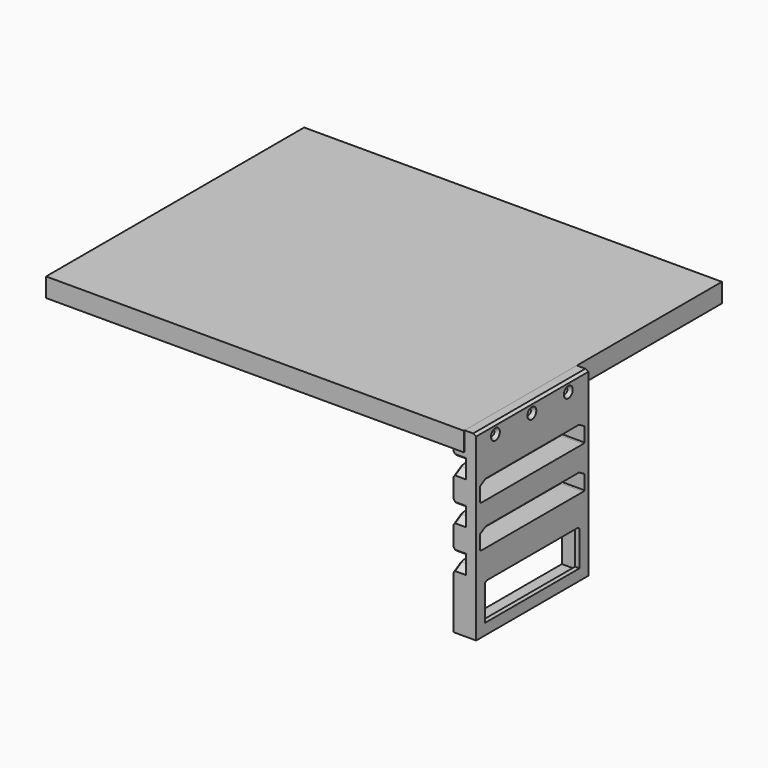
from build123d import *

# Parameters (mm, degrees)
F0_W              = 208.5
F0_H              = 19
F1_DEPTH          = 161
F5_START          = 20
F5_DEPTH          = 140
F6_SIZE2          = 5.7735026919
F6_SIZE           = 10
F6_2_SIZE2        = 5.7735026919
F6_2_SIZE         = 10
F6_3_SIZE2        = 5.7735026919
F6_3_SIZE         = 10
F7_SIZE2          = 5.7735026919
F7_SIZE           = 10
F7_2_SIZE2        = 5.7735026919
F7_2_SIZE         = 10
F7_3_SIZE2        = 5.7735026919
F7_3_SIZE         = 10
F8_SIZE           = 3
F9_SIZE2          = 1.7320508076
F9_SIZE           = 3
F10_R             = 8
F11_SIZE          = 1.5
F13_DEPTH         = 22.5
F15_D             = 5
F15_CSINK_D       = 11
F15_CSINK_ANGLE   = 90
F15_2_D           = 5
F15_2_CSINK_D     = 11
F15_2_CSINK_ANGLE = 90
F16_DEPTH         = 18
F18_DEPTH         = 22.501


with BuildPart() as f1:
    # F0 (on Front) → F1 (new body)
    with BuildSketch(Plane.XZ):
        with Locations((104.25, 9.5)):
            Rectangle(F0_W, F0_H)
    extrude(amount=F1_DEPTH)

    # F2: F1 across face


with BuildPart() as f1_1:
    add(f1.part)
    add(f1.part.mirror(Plane(origin=(104.25, 0, 9.5), x_dir=(1, 0, 0), z_dir=(0, 1, 0))))

    # F3: F1 across face


with BuildPart() as f1_2:
    add(f1_1.part)
    add(f1_1.part.mirror(Plane(origin=(0, 0, 9.5), x_dir=(0, -1, 0), z_dir=(-1, 0, 0))))

    # F15 (through all)
    with Locations(Plane.YZ.offset(220)):
        with Locations((-136, 9.5), (-90.5, 9.5), (-45, 9.5)):
            CounterSinkHole(F15_D / 2, F15_CSINK_D / 2, counter_sink_angle=F15_CSINK_ANGLE)


with BuildPart() as f5:
    # F4 (on Front) → F5 (new body)
    with BuildSketch(Plane.XZ.offset(F5_START)):
        Polygon((220, 19), (208.5, 19), (208.5, 0), (197.5, 0), (197.5, -8), (210, -8), (210, -18), (197.5, -18), (197.5, -50), (210, -50), (210, -60), (197.5, -60), (197.5, -92), (210, -92), (210, -102), (197.5, -102), (197.5, -162), (220, -162), align=None)
    extrude(amount=F5_DEPTH)

    # F6
    f6_edges = [f5.edges().sort_by_distance(p)[0] for p in [
        (203.75, -160, -18),
    ]]
    f6_side = f5.faces().sort_by_distance((203.75, -90, -18))[0]
    chamfer(f6_edges, length=F6_SIZE, length2=F6_SIZE2, reference=f6_side)

    # F6#2
    f6_2_edges = [f5.edges().sort_by_distance(p)[0] for p in [
        (203.75, -160, -60),
    ]]
    f6_2_side = f5.faces().sort_by_distance((203.75, -90, -60))[0]
    chamfer(f6_2_edges, length=F6_2_SIZE, length2=F6_2_SIZE2, reference=f6_2_side)

    # F6#3
    f6_3_edges = [f5.edges().sort_by_distance(p)[0] for p in [
        (203.75, -160, -102),
    ]]
    f6_3_side = f5.faces().sort_by_distance((203.75, -90, -102))[0]
    chamfer(f6_3_edges, length=F6_3_SIZE, length2=F6_3_SIZE2, reference=f6_3_side)

    # F7
    f7_edges = [f5.edges().sort_by_distance(p)[0] for p in [
        (203.75, -20, -18),
    ]]
    f7_side = f5.faces().sort_by_distance((203.75, -85, -18))[0]
    chamfer(f7_edges, length=F7_SIZE, length2=F7_SIZE2, reference=f7_side)

    # F7#2
    f7_2_edges = [f5.edges().sort_by_distance(p)[0] for p in [
        (203.75, -20, -60),
    ]]
    f7_2_side = f5.faces().sort_by_distance((203.75, -85, -60))[0]
    chamfer(f7_2_edges, length=F7_2_SIZE, length2=F7_2_SIZE2, reference=f7_2_side)

    # F7#3
    f7_3_edges = [f5.edges().sort_by_distance(p)[0] for p in [
        (203.75, -20, -102),
    ]]
    f7_3_side = f5.faces().sort_by_distance((203.75, -85, -102))[0]
    chamfer(f7_3_edges, length=F7_3_SIZE, length2=F7_3_SIZE2, reference=f7_3_side)

    # F8
    f8_edges = [f5.edges().sort_by_distance(p)[0] for p in [
        (203.75, -20, -8),
        (203.75, -20, -50),
        (203.75, -20, -92),
        (203.75, -160, -92),
        (203.75, -160, -50),
        (203.75, -160, -8),
    ]]
    chamfer(f8_edges, length=F8_SIZE)

    # F9
    f9_edges = [f5.edges().sort_by_distance(p)[0] for p in [
        (220, -90, 19),
    ]]
    f9_side = f5.faces().sort_by_distance((214.25, -90, 19))[0]
    chamfer(f9_edges, length=F9_SIZE, length2=F9_SIZE2, reference=f9_side)

    # F10
    f10_edges = [f5.edges().sort_by_distance(p)[0] for p in [
        (203.75, -30, -102),
        (203.75, -150, -102),
        (203.75, -150, -60),
        (203.75, -150, -18),
        (203.75, -30, -60),
        (203.75, -30, -18),
        (203.75, -23, -8),
        (203.75, -157, -8),
        (203.75, -23, -50),
        (203.75, -23, -92),
        (203.75, -157, -92),
        (203.75, -157, -50),
    ]]
    fillet(f10_edges, radius=F10_R)

    # F11
    f11_edges = [f5.edges().sort_by_distance(p)[0] for p in [
        (197.5, -24.071797, -21.42265),
        (197.5, -90, -8),
        (197.5, -90, -50),
        (197.5, -90, -60),
        (197.5, -90, -102),
        (197.5, -90, -92),
    ]]
    chamfer(f11_edges, length=F11_SIZE)

    # F12 (on face) → F13 (cut, through all)
    with BuildSketch(Plane(origin=(197.5, 0, 0), x_dir=(0, -1, 0), z_dir=(-1, 0, 0))):
        with BuildLine():
            ThreePointArc((25.2530472132, -43.0606612857), (25.7396827476, -43.3858207542), (26.313708499, -43.5000015754))
            Line((26.313708499, -43.5000015754), (153.686291501, -43.5000015754))
            ThreePointArc((153.686291501, -43.5000015754), (154.2603172524, -43.3858207542), (154.7469527868, -43.0606612857))
            Line((154.7469527868, -43.0606612857), (155.0000015754, -42.8076124971))
            Line((155.0000015754, -42.8076124971), (155.0000015754, -28.3923039359))
            Line((155.0000015754, -28.3923039359), (148.6064072482, -24.70096053))
            ThreePointArc((148.6064072482, -24.70096053), (148.2446354359, -24.5511097389), (147.8564064606, -24.4999984246))
            Line((147.8564064606, -24.4999984246), (32.1435935394, -24.4999984246))
            ThreePointArc((32.1435935394, -24.4999984246), (31.7553645641, -24.5511097389), (31.3935927518, -24.70096053))
            Line((31.3935927518, -24.70096053), (24.9999984246, -28.3923039359))
            Line((24.9999984246, -28.3923039359), (24.9999984246, -42.8076124971))
            Line((24.9999984246, -42.8076124971), (25.2530472132, -43.0606612857))
        make_face()
        with BuildLine():
            ThreePointArc((25.2530451495, -85.0606633495), (25.7396816307, -85.3858234506), (26.313708499, -85.5000044939))
            Line((26.313708499, -85.5000044939), (153.686291501, -85.5000044939))
            ThreePointArc((153.686291501, -85.5000044939), (154.2603183693, -85.3858234506), (154.7469548505, -85.0606633495))
            Line((154.7469548505, -85.0606633495), (155.0000044939, -84.807613706))
            Line((155.0000044939, -84.807613706), (155.0000044939, -70.3923022508))
            Line((155.0000044939, -70.3923022508), (148.6064087075, -66.7009580025))
            ThreePointArc((148.6064087075, -66.7009580025), (148.2446361913, -66.5511069197), (147.8564064606, -66.4999955061))
            Line((147.8564064606, -66.4999955061), (32.1435935394, -66.4999955061))
            ThreePointArc((32.1435935394, -66.4999955061), (31.7553638087, -66.5511069197), (31.3935912925, -66.7009580025))
            Line((31.3935912925, -66.7009580025), (24.9999955061, -70.3923022508))
            Line((24.9999955061, -70.3923022508), (24.9999955061, -84.807613706))
            Line((24.9999955061, -84.807613706), (25.2530451495, -85.0606633495))
        make_face()
    extrude(amount=-F13_DEPTH, mode=Mode.SUBTRACT)

    # F15#2 (through all)
    with Locations(Plane.YZ.offset(220)):
        with Locations((-136, 9.5), (-90.5, 9.5), (-45, 9.5)):
            CounterSinkHole(F15_2_D / 2, F15_2_CSINK_D / 2, counter_sink_angle=F15_2_CSINK_ANGLE)

    # F12 (on face) → F16 (cut)
    with BuildSketch(Plane(origin=(197.5, 0, 0), x_dir=(0, -1, 0), z_dir=(-1, 0, 0))):
        with BuildLine():
            Line((25, -112.3923048454), (25, -157))
            Line((25, -157), (155, -157))
            Line((155, -157), (155, -112.3923048454))
            Line((155, -112.3923048454), (148.6064064606, -108.7009618943))
            ThreePointArc((148.6064064606, -108.7009618943), (148.2446350282, -108.5511112606), (147.8564064606, -108.5))
            Line((147.8564064606, -108.5), (32.1435935394, -108.5))
            ThreePointArc((32.1435935394, -108.5), (31.7553649718, -108.5511112606), (31.3935935394, -108.7009618943))
            Line((31.3935935394, -108.7009618943), (25, -112.3923048454))
        make_face()
    extrude(amount=-F16_DEPTH, mode=Mode.SUBTRACT)

    # F17 (on face) → F18 (cut, through all)
    with BuildSketch(Plane(origin=(197.5, 0, 0), x_dir=(0, -1, 0), z_dir=(-1, 0, 0))):
        Polygon((149, -151), (149, -115.8564064606), (146.6506350946, -114.5), (33.3493649054, -114.5), (31, -115.8564064606), (31, -151), align=None)
    extrude(amount=-F18_DEPTH, mode=Mode.SUBTRACT)


solid = Compound([f1_2.part, f5.part])
